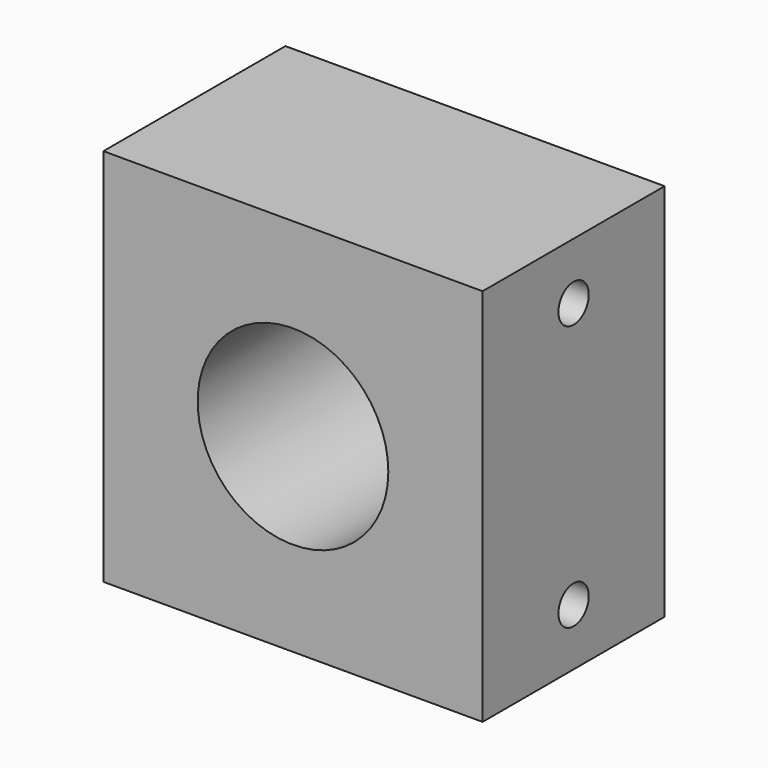
from build123d import *

# Parameters (mm, degrees)
F0_W     = 63.5
F0_H     = 63.5
F0_R     = 15.9639
F1_DEPTH = 19.05
F2_R     = 3.175
F3_DEPTH = 34.925


with BuildPart() as f1:
    # F0 (on Front) → F1 (new body, symmetric)
    with BuildSketch(Plane.XZ):
        Rectangle(F0_W, F0_H)
        Circle(F0_R, mode=Mode.SUBTRACT)
    extrude(amount=F1_DEPTH, both=True)

    # F2 (on Right) → F3 (cut, symmetric)
    with BuildSketch(Plane.YZ):
        with Locations((0, 22.225)):
            Circle(F2_R)
        with Locations((0, -22.225)):
            Circle(F2_R)
    extrude(amount=F3_DEPTH, both=True, mode=Mode.SUBTRACT)


solid = f1.part
